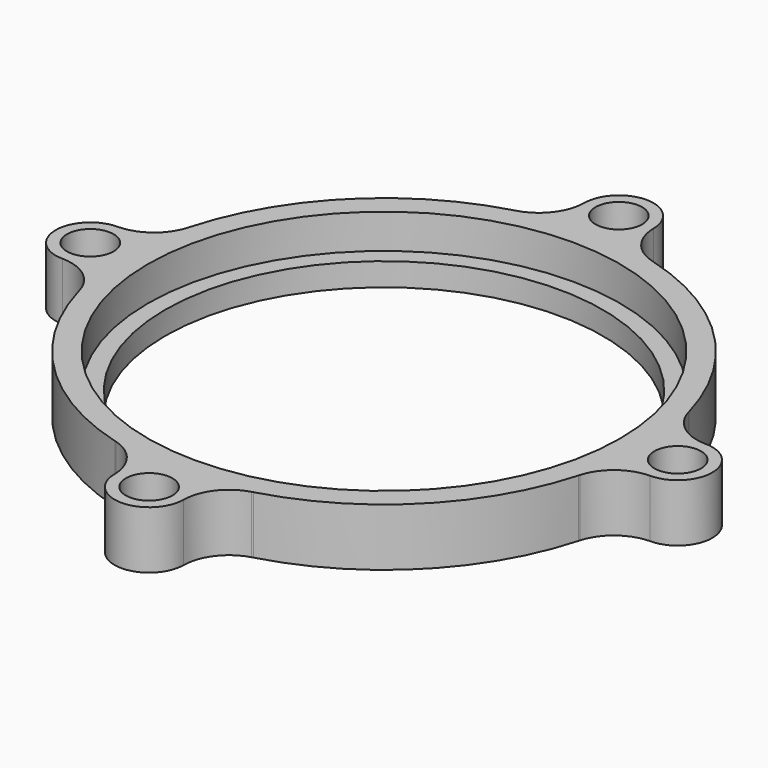
from build123d import *

# Parameters (mm, degrees)
F0_R     = 20.5
F0_R_2   = 19
F1_DEPTH = 2
F0_R_3   = 2.025
F2_DEPTH = 5


with BuildPart() as f1:
    # F0 (on Top) → F1 (new body)
    with BuildSketch(Plane.XY):
        Circle(F0_R)
        Circle(F0_R_2, mode=Mode.SUBTRACT)
    extrude(amount=F1_DEPTH)

    # F0 (on Top) → F2 (join)
    with BuildSketch(Plane.XY):
        with BuildLine():
            ThreePointArc((-21.716398, 5.886259), (-23.1323, 3.819272), (-25.5, 3))
            ThreePointArc((-25.5, 3), (-28.5, 0), (-25.5, -3))
            ThreePointArc((-25.5, -3), (-23.1323, -3.819272), (-21.716398, -5.886259))
            ThreePointArc((-21.716398, -5.886259), (-21.700404, -5.943015), (-21.685248, -6))
            ThreePointArc((-21.685248, -6), (-15.909903, -15.909903), (-6, -21.685248))
            ThreePointArc((-6, -21.685248), (-5.942762, -21.700469), (-5.885756, -21.716535))
            ThreePointArc((-5.885756, -21.716535), (-3.822635, -23.127587), (-2.999901, -25.48781))
            ThreePointArc((-2.999901, -25.48781), (0, -28.48771), (2.999901, -25.48781))
            ThreePointArc((2.999901, -25.48781), (3.822635, -23.127587), (5.885756, -21.716535))
            ThreePointArc((5.885756, -21.716535), (5.942762, -21.700469), (6, -21.685248))
            ThreePointArc((6, -21.685248), (15.909903, -15.909903), (21.685248, -6))
            ThreePointArc((21.685248, -6), (21.700404, -5.943015), (21.716398, -5.886259))
            ThreePointArc((21.716398, -5.886259), (23.1323, -3.819272), (25.5, -3))
            ThreePointArc((25.5, -3), (28.5, 0), (25.5, 3))
            ThreePointArc((25.5, 3), (23.1323, 3.819272), (21.716398, 5.886259))
            ThreePointArc((21.716398, 5.886259), (21.700404, 5.943015), (21.685248, 6))
            ThreePointArc((21.685248, 6), (15.909903, 15.909903), (6, 21.685248))
            ThreePointArc((6, 21.685248), (5.942847, 21.700447), (5.885925, 21.716489))
            ThreePointArc((5.885925, 21.716489), (3.822748, 23.127543), (3, 25.487809))
            ThreePointArc((3, 25.487809), (0, 28.487809), (-3, 25.487809))
            ThreePointArc((-3, 25.487809), (-3.822748, 23.127543), (-5.885925, 21.716489))
            ThreePointArc((-5.885925, 21.716489), (-5.942847, 21.700447), (-6, 21.685248))
            ThreePointArc((-6, 21.685248), (-15.909903, 15.909903), (-21.685248, 6))
            ThreePointArc((-21.685248, 6), (-21.700404, 5.943015), (-21.716398, 5.886259))
        make_face()
        with Locations((9.9e-05, -25.48781)):
            Circle(F0_R_3, mode=Mode.SUBTRACT)
        with Locations((-25.5, 0)):
            Circle(F0_R_3, mode=Mode.SUBTRACT)
        Circle(F0_R, mode=Mode.SUBTRACT)
        with Locations((25.5, 0)):
            Circle(F0_R_3, mode=Mode.SUBTRACT)
        with Locations((0, 25.487809)):
            Circle(F0_R_3, mode=Mode.SUBTRACT)
    extrude(amount=F2_DEPTH)


solid = f1.part
